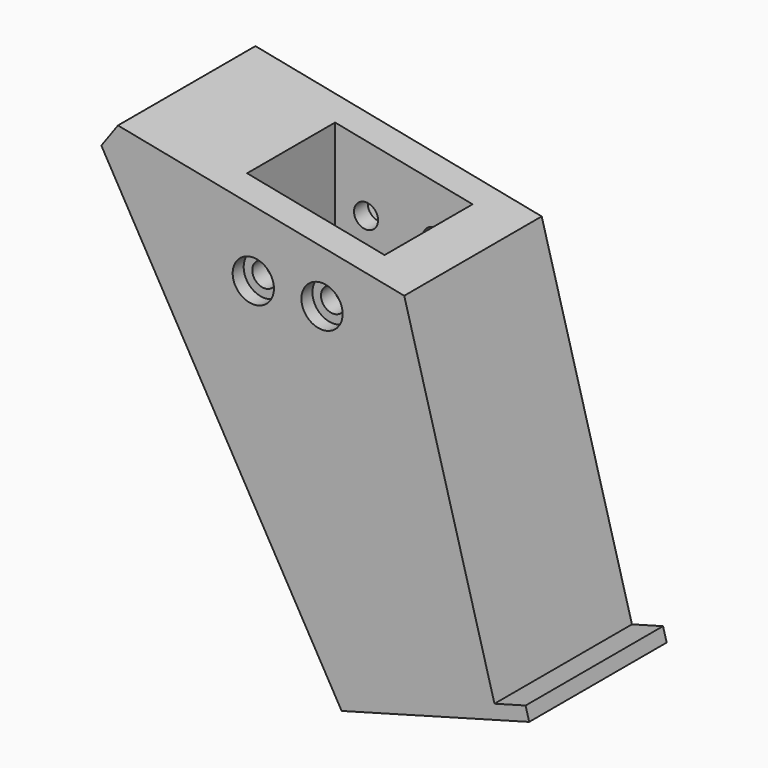
from build123d import *

# Parameters (mm, degrees)
CYLINDER077_R          = 3
CYLINDER077_DEPTH      = 32
CYLINDER077_ROLL_ANGLE = -90
CYLINDER076_R          = 3
CYLINDER076_DEPTH      = 32
CYLINDER076_ROLL_ANGLE = -90
PRISM002_DEPTH         = 10
PRISM002_ROLL_ANGLE    = -90
PRISM003_DEPTH         = 10
PRISM003_ROLL_ANGLE    = -90
CYLINDER071_R          = 1.75
CYLINDER071_DEPTH      = 32
CYLINDER071_ROLL_ANGLE = -90
CYLINDER072_R          = 1.75
CYLINDER072_DEPTH      = 32
CYLINDER072_ROLL_ANGLE = -90
BOX055_W               = 20
BOX055_H               = 16
BOX055_DEPTH           = 56
PAD009_DEPTH           = 25
CHAMFER109_SIZE        = 5


with BuildPart() as cilindro018:
    # Cylinder077 → Cylinder077 (new body)
    with BuildSketch(Plane.XY):
        Circle(CYLINDER077_R)
    extrude(amount=CYLINDER077_DEPTH)


with BuildPart() as cilindro018_1:
    # Cylinder077 roll: moved
    add(cilindro018.part.rotate(Axis((0, 0, 0), (1, 0, 0)), CYLINDER077_ROLL_ANGLE))


with BuildPart() as cilindro018_2:
    # Cylinder077 placement: moved
    add(cilindro018_1.part.moved(Location((8, 116, 84))))


with BuildPart() as fusion059:
    # Cylinder076 → Cylinder076 (new body)
    with BuildSketch(Plane.XY):
        Circle(CYLINDER076_R)
    extrude(amount=CYLINDER076_DEPTH)


with BuildPart() as fusion059_1:
    # Cylinder076 roll: moved
    add(fusion059.part.rotate(Axis((0, 0, 0), (1, 0, 0)), CYLINDER076_ROLL_ANGLE))


with BuildPart() as fusion059_2:
    # Cylinder076 placement: moved
    add(fusion059_1.part.moved(Location((18, 116, 84))))

    # Fusion059: union Cilindro018
    add(cilindro018_2.part)


with BuildPart() as prisma001:
    # Prism002 → Prism002 (new body)
    with BuildSketch(Plane.XY):
        Polygon((3.3, 0), (1.65, 2.857884), (-1.65, 2.857884), (-3.3, 0), (-1.65, -2.857884), (1.65, -2.857884), align=None)
    extrude(amount=PRISM002_DEPTH)


with BuildPart() as prisma001_1:
    # Prism002 roll: moved
    add(prisma001.part.rotate(Axis((0, 0, 0), (1, 0, 0)), PRISM002_ROLL_ANGLE))


with BuildPart() as prisma001_2:
    # Prism002 placement: moved
    add(prisma001_1.part.moved(Location((18, 85, 84))))


with BuildPart() as fusion058:
    # Prism003 → Prism003 (new body)
    with BuildSketch(Plane.XY):
        Polygon((3.3, 0), (1.65, 2.857884), (-1.65, 2.857884), (-3.3, 0), (-1.65, -2.857884), (1.65, -2.857884), align=None)
    extrude(amount=PRISM003_DEPTH)


with BuildPart() as fusion058_1:
    # Prism003 roll: moved
    add(fusion058.part.rotate(Axis((0, 0, 0), (1, 0, 0)), PRISM003_ROLL_ANGLE))


with BuildPart() as fusion058_2:
    # Prism003 placement: moved
    add(fusion058_1.part.moved(Location((8, 85, 84))))

    # Fusion058: union Prisma001
    add(prisma001_2.part)


with BuildPart() as cilindro012:
    # Cylinder071 → Cylinder071 (new body)
    with BuildSketch(Plane.XY):
        Circle(CYLINDER071_R)
    extrude(amount=CYLINDER071_DEPTH)


with BuildPart() as cilindro012_1:
    # Cylinder071 roll: moved
    add(cilindro012.part.rotate(Axis((0, 0, 0), (1, 0, 0)), CYLINDER071_ROLL_ANGLE))


with BuildPart() as cilindro012_2:
    # Cylinder071 placement: moved
    add(cilindro012_1.part.moved(Location((8, 90, 84))))


with BuildPart() as fusion055:
    # Cylinder072 → Cylinder072 (new body)
    with BuildSketch(Plane.XY):
        Circle(CYLINDER072_R)
    extrude(amount=CYLINDER072_DEPTH)


with BuildPart() as fusion055_1:
    # Cylinder072 roll: moved
    add(fusion055.part.rotate(Axis((0, 0, 0), (1, 0, 0)), CYLINDER072_ROLL_ANGLE))


with BuildPart() as fusion055_2:
    # Cylinder072 placement: moved
    add(fusion055_1.part.moved(Location((18, 90, 84))))

    # Fusion055: union Cilindro012
    add(cilindro012_2.part)


with BuildPart() as cubo005:
    # Box055 → Box055 (new body)
    with BuildSketch(Plane(origin=(3.5, 97.5, 79.5), x_dir=(1, 0, 0), z_dir=(0, 0, 1))):
        with Locations((10, 8)):
            Rectangle(BOX055_W, BOX055_H)
    extrude(amount=BOX055_DEPTH)


with BuildPart() as clone_of_chamfer109:
    # Sketch014 → Pad009 (new body)
    with BuildSketch(Plane(origin=(0, 93, 0), x_dir=(-1, 0, 0), z_dir=(0, 1, 0))):
        Polygon((-43.087208, 41.265208), (-29.956285, 89.24578), (16.5937, 98.48838), (-20.850395, 33.106079), (-48.138032, 40.573932), (-47.610101, 42.502996), align=None)
    extrude(amount=PAD009_DEPTH)

    # Cut096: cut Cubo005
    add(cubo005.part, mode=Mode.SUBTRACT)

    # Cut097: cut Fusion055
    add(fusion055_2.part, mode=Mode.SUBTRACT)

    # Cut101: cut Fusion058
    add(fusion058_2.part, mode=Mode.SUBTRACT)

    # Cut102: cut Fusion059
    add(fusion059_2.part, mode=Mode.SUBTRACT)

    # Chamfer109
    chamfer109_edges = [clone_of_chamfer109.edges().sort_by_distance(p)[0] for p in [
        (-16.5937, 105.5, 98.48838),
    ]]
    chamfer(chamfer109_edges, length=CHAMFER109_SIZE)


with BuildPart() as part_mirroring007010:
    # Part__Mirroring007010: instance of Clone of Chamfer109
    add(clone_of_chamfer109.part.mirror(Plane(origin=(0, 0, 0), x_dir=(1, 0, 0), z_dir=(0, 1, 0))))


with BuildPart() as part_mirroring007010_1:
    # Part__Mirroring007010 placement: moved
    add(part_mirroring007010.part.moved(Location((0, 72, 0))))


solid = part_mirroring007010_1.part
